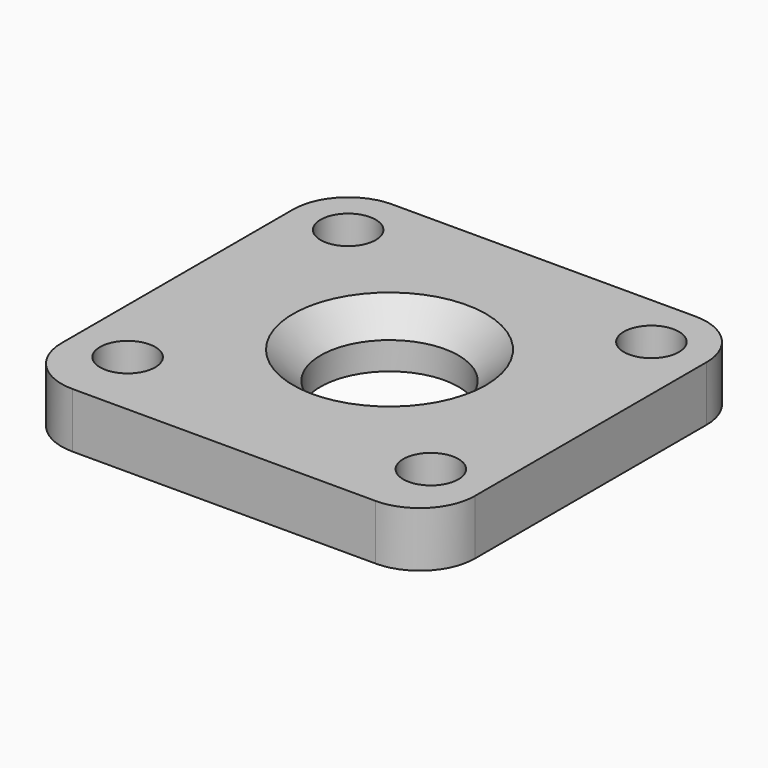
from build123d import *

# Parameters (mm, degrees)
F0_W     = 30
F0_H     = 29
F0_R     = 2
F0_R_2   = 5
F1_DEPTH = 4
F2_R     = 4
F3_SIZE  = 2


with BuildPart() as f1:
    # F0 (on Top) → F1 (new body)
    with BuildSketch(Plane.XY):
        with Locations((0, -0.5)):
            Rectangle(F0_W, F0_H)
        with Locations((-11, -10)):
            Circle(F0_R, mode=Mode.SUBTRACT)
        with Locations((11, -10)):
            Circle(F0_R, mode=Mode.SUBTRACT)
        with Locations((-11, 10)):
            Circle(F0_R, mode=Mode.SUBTRACT)
        Circle(F0_R_2, mode=Mode.SUBTRACT)
        with Locations((11, 10)):
            Circle(F0_R, mode=Mode.SUBTRACT)
    extrude(amount=F1_DEPTH)

    # F2
    f2_edges = [f1.edges().sort_by_distance(p)[0] for p in [
        (-15, 14, 2),
        (15, 14, 2),
        (-15, -15, 2),
        (15, -15, 2),
    ]]
    fillet(f2_edges, radius=F2_R)

    # F3
    f3_edges = [f1.edges().sort_by_distance(p)[0] for p in [
        (-5, 0, 4),
    ]]
    chamfer(f3_edges, length=F3_SIZE)


solid = f1.part
